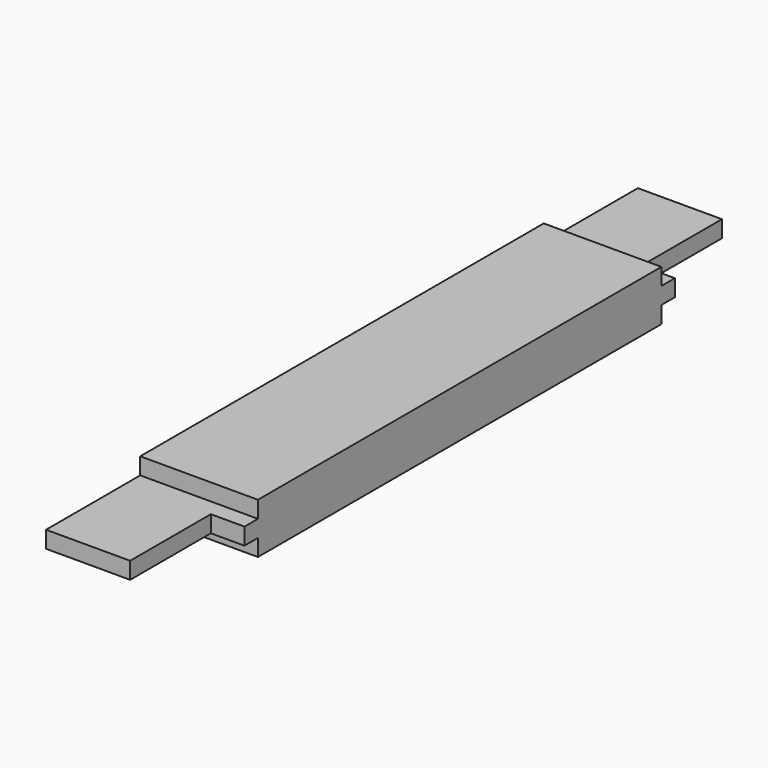
from build123d import *

# Parameters (mm, degrees)
F0_W     = 88.9
F0_H     = 38.1
F1_DEPTH = 190.5
F2_W     = 88.9
F2_H     = 12.7
F3_DEPTH = 12.7
F4_W     = 63.5
F4_H     = 12.7
F5_DEPTH = 76.2


with BuildPart() as f1:
    # F0 (on Front) → F1 (new body)
    with BuildSketch(Plane.XZ):
        with Locations((44.45, 19.05)):
            Rectangle(F0_W, F0_H)
    extrude(amount=F1_DEPTH)

    # F2 (on face) → F3 (join)
    with BuildSketch(Plane.XZ.offset(190.5)):
        with Locations((44.45, 19.05)):
            Rectangle(F2_W, F2_H)
    extrude(amount=F3_DEPTH)

    # F4 (on face) → F5 (join)
    with BuildSketch(Plane.XZ.offset(203.2)):
        with Locations((31.75, 19.05)):
            Rectangle(F4_W, F4_H)
    extrude(amount=F5_DEPTH)

    # F6: F1 across face


with BuildPart() as f1_1:
    add(f1.part)
    add(f1.part.mirror(Plane(origin=(44.45, 0, 19.05), x_dir=(1, 0, 0), z_dir=(0, 1, 0))))


solid = f1_1.part
